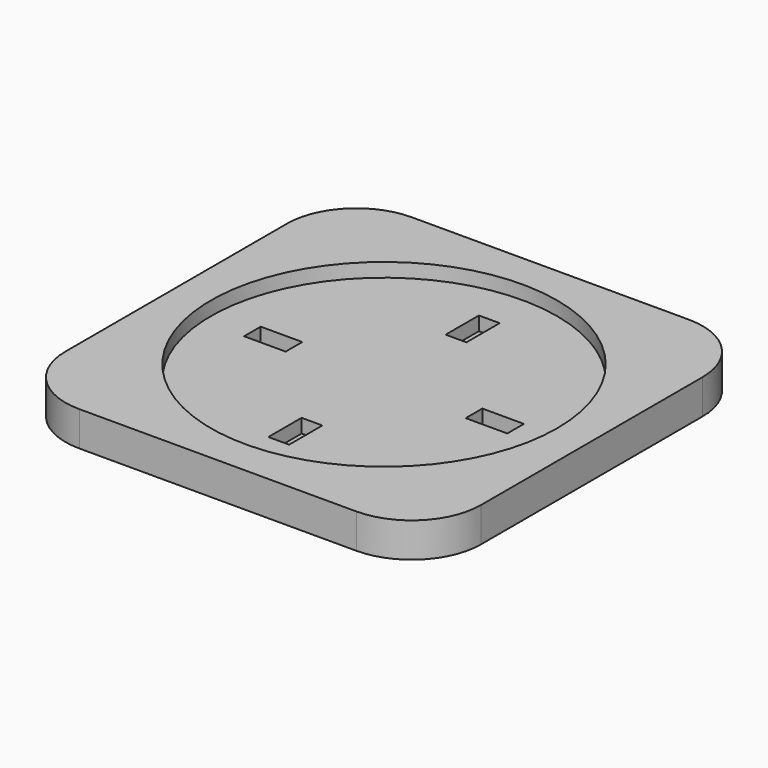
from build123d import *

# Parameters (mm, degrees)
F0_W     = 60
F0_H     = 60
F1_DEPTH = 5
F2_R     = 25
F3_DEPTH = 2
F4_R     = 10
F5_W     = 3
F5_H     = 6
F5_W_2   = 6
F5_H_2   = 3
F6_DEPTH = 2


with BuildPart() as f1:
    # F0 (on Top) → F1 (new body)
    with BuildSketch(Plane.XY):
        with Locations((-0.287805, 7.729389)):
            Rectangle(F0_W, F0_H)
    extrude(amount=F1_DEPTH)

    # F2 (on face) → F3 (cut)
    with BuildSketch(Plane.XY.offset(5)):
        with Locations((-0.287805, 7.729389)):
            Circle(F2_R)
    extrude(amount=-F3_DEPTH, mode=Mode.SUBTRACT)

    # F4
    f4_edges = [f1.edges().sort_by_distance(p)[0] for p in [
        (29.712195, -22.270611, 2.5),
        (29.712195, 37.729389, 2.5),
        (-30.287805, 37.729389, 2.5),
        (-30.287805, -22.270611, 2.5),
    ]]
    fillet(f4_edges, radius=F4_R)

    # F5 (on face) → F6 (cut)
    with BuildSketch(Plane.XY.offset(3)):
        with Locations((-0.287805, 23.729389)):
            Rectangle(F5_W, F5_H)
        with Locations((-16.287805, 7.729389)):
            Rectangle(F5_W_2, F5_H_2)
        with Locations((-0.287805, -8.270611)):
            Rectangle(F5_W, F5_H)
        with Locations((15.712195, 7.729389)):
            Rectangle(F5_W_2, F5_H_2)
    extrude(amount=-F6_DEPTH, mode=Mode.SUBTRACT)


solid = f1.part
